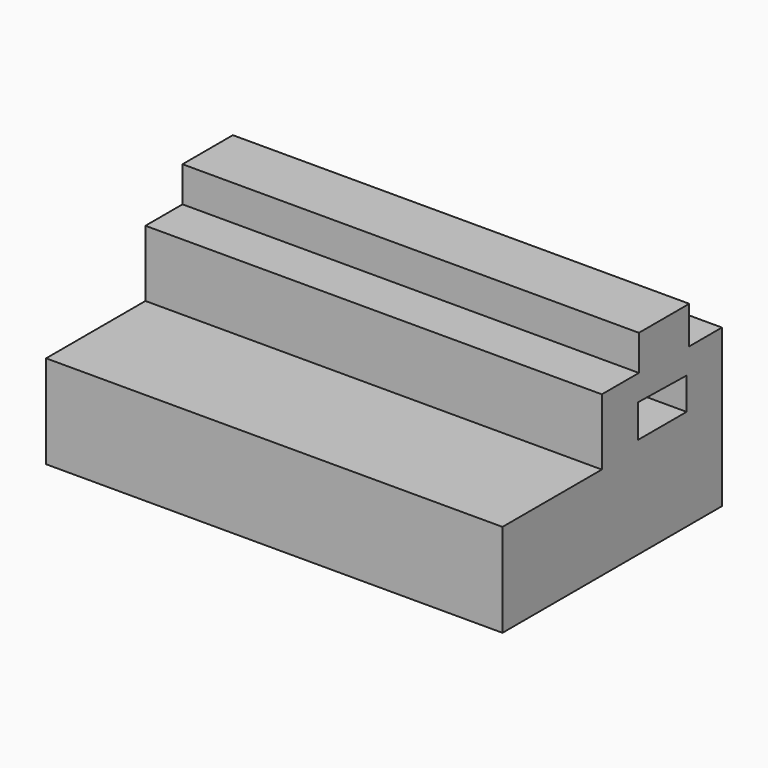
from build123d import *

# Parameters (mm, degrees)
F1_DEPTH = 127


with BuildPart() as f1:
    # F0 (on Right) → F1 (new body)
    with BuildSketch(Plane.YZ):
        Polygon((0, 25.953339), (0, 0), (76.324314, 0), (76.324314, 43.767467), (64.96013, 43.767467), (64.96013, 54.210231), (47.45315, 54.210231), (47.45315, 44.381749), (34.553263, 44.381749), (34.553263, 25.953339), align=None)
        Polygon((47.146007, 28.103322), (47.146007, 37.317526), (64.038716, 37.010383), (64.038716, 28.103322), align=None, mode=Mode.SUBTRACT)
    extrude(amount=F1_DEPTH)


solid = f1.part
